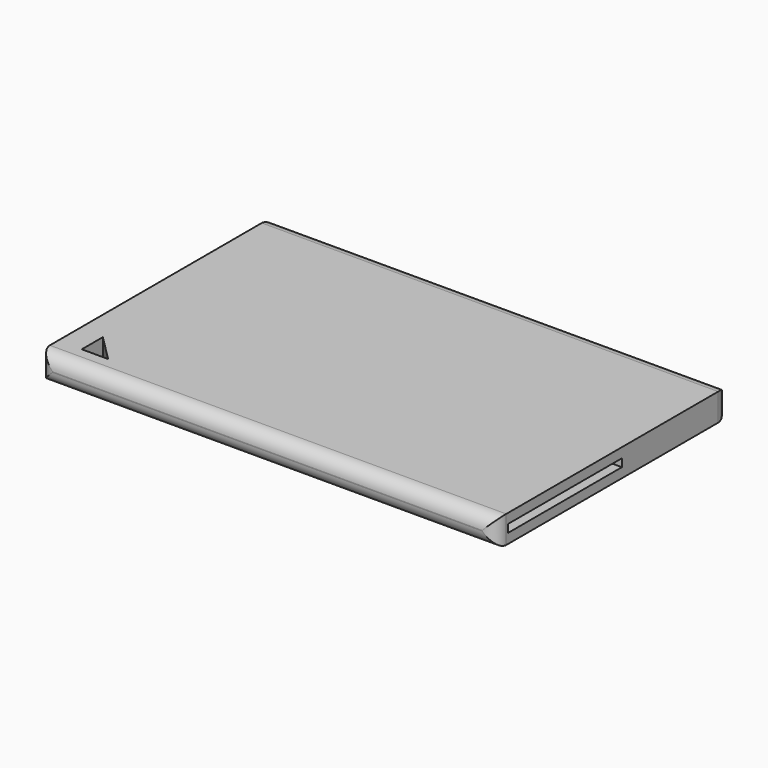
from build123d import *

# Parameters (mm, degrees)
F0_W     = 86.7
F0_H     = 55.4
F1_DEPTH = 5.2
F2_R     = 2.54
F4_DEPTH = 25.4
F6_W     = 27
F6_H     = 1.5
F7_DEPTH = 25.4


with BuildPart() as f1:
    # F0 (on Top) → F1 (new body)
    with BuildSketch(Plane.XY):
        with Locations((43.35, 27.7)):
            Rectangle(F0_W, F0_H)
    extrude(amount=F1_DEPTH)

    # F2
    f2_edges = [f1.edges().sort_by_distance(p)[0] for p in [
        (43.35, 0, 5.2),
        (43.35, 0, 0),
        (43.35, 55.4, 5.2),
        (43.35, 55.4, 0),
        (86.7, 0, 2.6),
        (0, 0, 2.6),
        (0, 55.4, 2.6),
        (86.7, 55.4, 2.6),
    ]]
    fillet(f2_edges, radius=F2_R)

    # F3 (on face) → F4 (cut)
    with BuildSketch(Plane.XY.offset(5.2)):
        Polygon((9.5, 4.5), (4.5, 9.5), (4.5, 4.5), align=None)
    extrude(amount=-F4_DEPTH, mode=Mode.SUBTRACT)

    # F6 (on face) → F7 (cut)
    with BuildSketch(Plane.YZ.offset(86.7)):
        with Locations((16.5, 2.6)):
            Rectangle(F6_W, F6_H)
    extrude(amount=-F7_DEPTH, mode=Mode.SUBTRACT)


solid = f1.part
